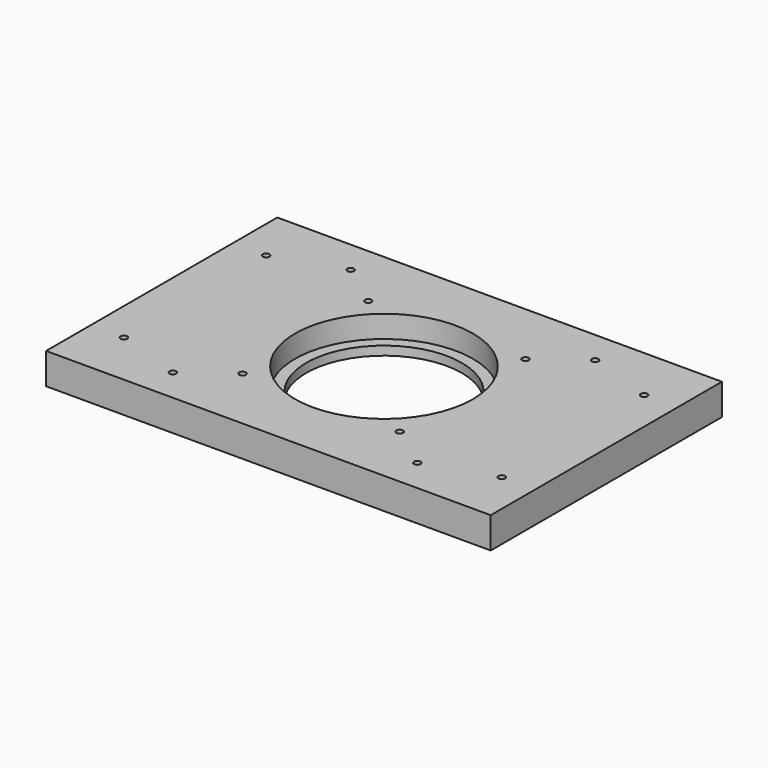
from build123d import *

# Parameters (mm, degrees)
SKETCH_W     = 200
SKETCH_H     = 130
SKETCH_R     = 35
SKETCH_R_2   = 1.5
PAD_DEPTH    = 14
SKETCH001_R  = 40
POCKET_DEPTH = 10


with BuildPart() as part:
    # Sketch → Pad (new body)
    with BuildSketch(Plane.XY):
        with Locations((100, 65)):
            Rectangle(SKETCH_W, SKETCH_H)
        with Locations((100, 65)):
            Circle(SKETCH_R, mode=Mode.SUBTRACT)
        with Locations((45, 115)):
            Circle(SKETCH_R_2, mode=Mode.SUBTRACT)
        with Locations((45, 15)):
            Circle(SKETCH_R_2, mode=Mode.SUBTRACT)
        with Locations((155, 115)):
            Circle(SKETCH_R_2, mode=Mode.SUBTRACT)
        with Locations((155, 15)):
            Circle(SKETCH_R_2, mode=Mode.SUBTRACT)
        with Locations((15, 105)):
            Circle(SKETCH_R_2, mode=Mode.SUBTRACT)
        with Locations((15, 25)):
            Circle(SKETCH_R_2, mode=Mode.SUBTRACT)
        with Locations((185, 105)):
            Circle(SKETCH_R_2, mode=Mode.SUBTRACT)
        with Locations((185, 25)):
            Circle(SKETCH_R_2, mode=Mode.SUBTRACT)
        with Locations((135.355339, 100.355339)):
            Circle(SKETCH_R_2, mode=Mode.SUBTRACT)
        with Locations((64.644661, 29.644661)):
            Circle(SKETCH_R_2, mode=Mode.SUBTRACT)
        with Locations((64.64463, 100.35537)):
            Circle(SKETCH_R_2, mode=Mode.SUBTRACT)
        with Locations((135.355307, 29.644693)):
            Circle(SKETCH_R_2, mode=Mode.SUBTRACT)
    extrude(amount=PAD_DEPTH)

    # Sketch001 (on Face19 of Pad) → Pocket (cut)
    with BuildSketch(Plane.XY.offset(14)):
        with Locations((100, 65)):
            Circle(SKETCH001_R)
    extrude(amount=-POCKET_DEPTH, mode=Mode.SUBTRACT)


solid = part.part
